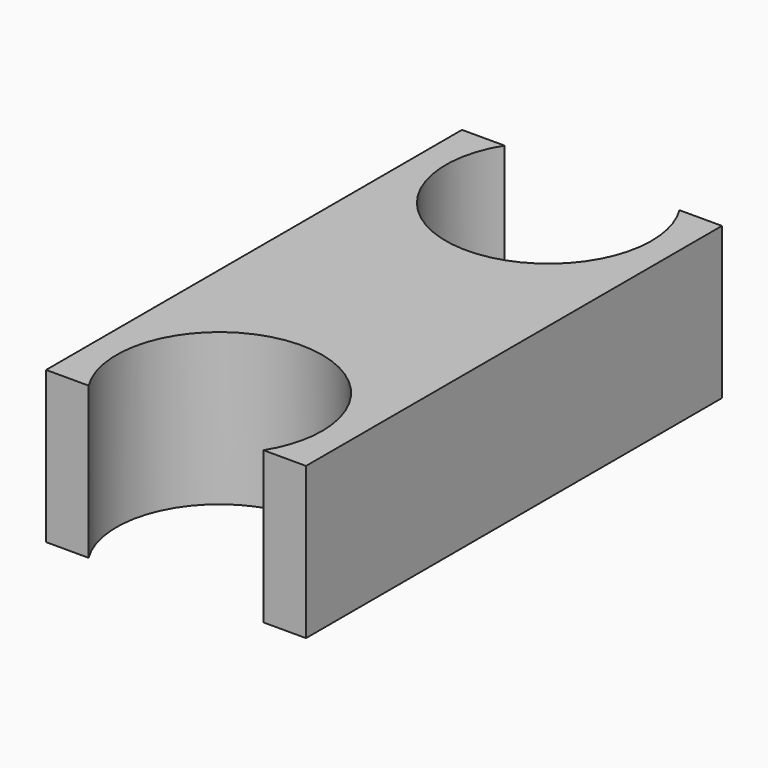
from build123d import *

# Parameters (mm, degrees)
F1_DEPTH = 7


with BuildPart() as f1:
    # F0 (on Top) → F1 (new body)
    with BuildSketch(Plane.XY):
        with BuildLine():
            Line((6, -12), (6, 12))
            Line((6, 12), (4.038874, 12))
            ThreePointArc((4.038874, 12), (4.568761, 10.799587), (4.75, 9.5))
            ThreePointArc((4.75, 9.5), (-1.299587, 4.931239), (-4.038874, 12))
            Line((-4.038874, 12), (-6, 12))
            Line((-6, 12), (-6, -12))
            Line((-6, -12), (-4.038874, -12))
            ThreePointArc((-4.038874, -12), (-1.299587, -4.931239), (4.75, -9.5))
            ThreePointArc((4.75, -9.5), (4.568761, -10.799587), (4.038874, -12))
            Line((4.038874, -12), (6, -12))
        make_face()
    extrude(amount=F1_DEPTH)


solid = f1.part
